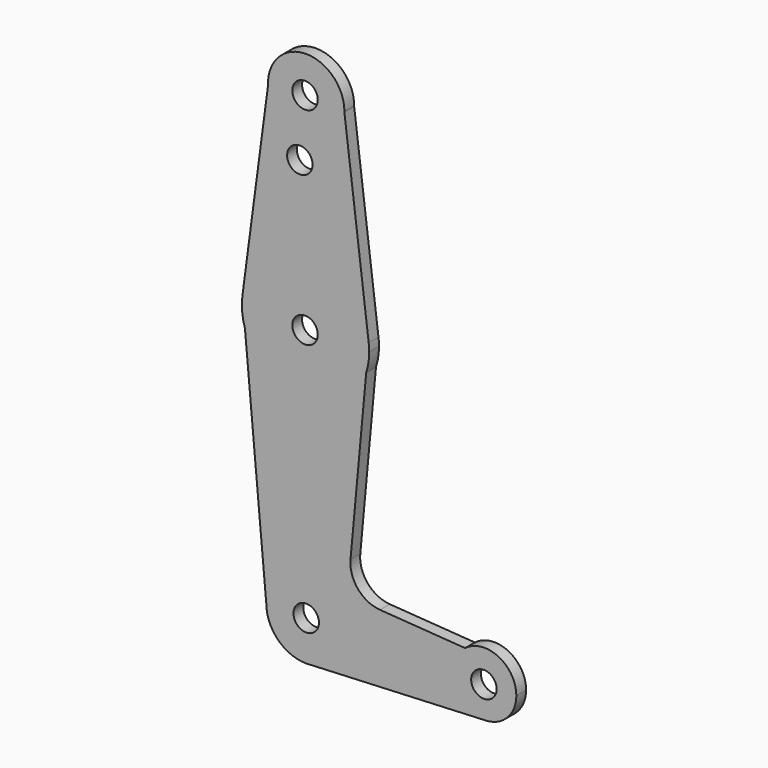
from build123d import *

# Parameters (mm, degrees)
F0_R     = 3.175
F1_DEPTH = 3.048


with BuildPart() as f1:
    # F0 (on Front) → F1 (new body)
    with BuildSketch(Plane.XZ):
        with BuildLine():
            ThreePointArc((44.811011276, -7.9292860403), (50.1888776452, -5.4835380571), (52.3875, 0))
            ThreePointArc((52.3875, 0), (47.9572367593, 7.1206177094), (39.611891417, 6.2925838563))
            ThreePointArc((39.611891417, 6.2925838563), (36.9950354855, -2.7253275651), (44.811011276, -7.9292860403))
        make_face()
        with Locations((44.2953519523, -0.143149824)):
            Circle(F0_R, mode=Mode.SUBTRACT)
        with BuildLine():
            ThreePointArc((44.811011276, -7.9292860403), (36.9950354855, -2.7253275651), (39.611891417, 6.2925838563))
            Line((39.611891417, 6.2925838563), (18.3958708033, 7.7857948995))
            ThreePointArc((18.3958708033, 7.7857948995), (12.8944465004, 10.5698187456), (11.0376963734, 16.4493541951))
            Line((11.0376963734, 16.4493541951), (14.947713815, 58.6785307391))
            ThreePointArc((14.947713815, 58.6785307391), (-0.1463299689, 47.6247825372), (-15.2836352123, 58.6192128102))
            Line((-15.2836352123, 58.6192128102), (-9.969479858, 0))
            ThreePointArc((-9.969479858, 0), (0, 9.969479858), (9.969479858, 0))
            ThreePointArc((9.969479858, 0), (7.3628146901, -6.7215689001), (0.905920049, -9.9282343598))
            Line((0.905920049, -9.9282343598), (44.811011276, -7.9292860403))
        make_face()
        with BuildLine():
            ThreePointArc((0, -9.969479858), (0.4534292465, -9.9591631454), (0.905920049, -9.9282343598))
            Line((0.905920049, -9.9282343598), (0, -9.969479858))
        make_face()
        with BuildLine():
            Line((0, -9.969479858), (0.905920049, -9.9282343598))
            ThreePointArc((0.905920049, -9.9282343598), (7.3628146901, -6.7215689001), (9.969479858, 0))
            ThreePointArc((9.969479858, 0), (0, 9.969479858), (-9.969479858, 0))
            ThreePointArc((-9.969479858, 0), (-7.0494868125, -7.0494868125), (0, -9.969479858))
        make_face()
        Circle(F0_R, mode=Mode.SUBTRACT)
        with BuildLine():
            Line((15.5757910153, 65.4619232349), (14.947713815, 58.6785307391))
            ThreePointArc((14.947713815, 58.6785307391), (15.5089493964, 61.060162597), (15.697521229, 63.4997519781))
            ThreePointArc((15.697521229, 63.4997519781), (15.6670594498, 64.4827237842), (15.5757910153, 65.4619232349))
        make_face()
        with BuildLine():
            ThreePointArc((-15.2836352123, 58.6192128102), (-0.1463299689, 47.6247825372), (14.947713815, 58.6785307391))
            Line((14.947713815, 58.6785307391), (15.5757910153, 65.4619232349))
            ThreePointArc((15.5757910153, 65.4619232349), (-0.1158692301, 79.374632427), (-15.9150440924, 65.5841374399))
            Line((-15.9150440924, 65.5841374399), (-15.2836352123, 58.6192128102))
        make_face()
        with Locations((-0.3013272653, 63.1359219551)):
            Circle(F0_R, mode=Mode.SUBTRACT)
        with BuildLine():
            ThreePointArc((-15.9150440924, 65.5841374399), (-15.9876443874, 62.0664731565), (-15.2836352123, 58.6192128102))
            Line((-15.2836352123, 58.6192128102), (-15.9150440924, 65.5841374399))
        make_face()
        with BuildLine():
            ThreePointArc((-15.9150440924, 65.5841374399), (-0.1158692301, 79.374632427), (15.5757910153, 65.4619232349))
            Line((15.5757910153, 65.4619232349), (9.5149043603, 114.1216833297))
            ThreePointArc((9.5149043603, 114.1216833297), (0.1285774786, 104.7759850451), (-9.522687446, 113.8478257686))
            Line((-9.522687446, 113.8478257686), (-15.9150440924, 65.5841374399))
        make_face()
        with Locations((-1.5948739996, 100.0249519781)):
            Circle(F0_R, mode=Mode.SUBTRACT)
        with BuildLine():
            ThreePointArc((-9.522687446, 113.8478257686), (0.1285774786, 104.7759850451), (9.5149043603, 114.1216833297))
            ThreePointArc((9.5149043603, 114.1216833297), (9.5161563004, 114.210837603), (9.516573626, 114.2999996894))
            ThreePointArc((9.516573626, 114.2999996894), (-0.2345770866, 123.8223145789), (-9.522687446, 113.8478257686))
        make_face()
        with Locations((-0.3013272653, 114.663168788)):
            Circle(F0_R, mode=Mode.SUBTRACT)
    extrude(amount=F1_DEPTH)


solid = f1.part
